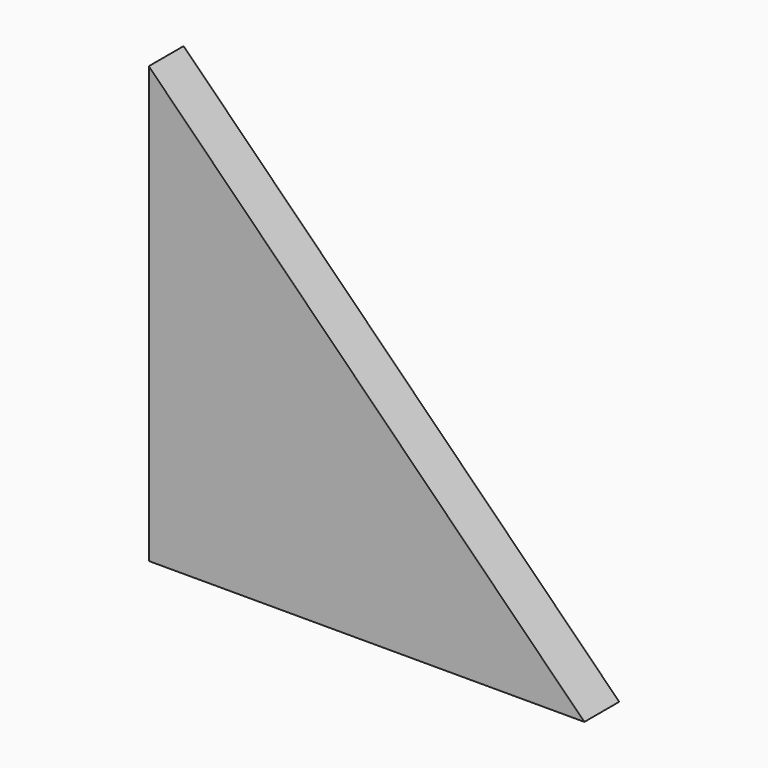
from build123d import *

# Parameters (mm, degrees)
F1_DEPTH = 25.4
F2_R     = 10.018842
F3_DEPTH = 6.35


with BuildPart() as f1:
    # F0 (on Front) → F1 (new body)
    with BuildSketch(Plane.XZ):
        Polygon((212.763246, -168.505661), (-41.236754, 85.494339), (-41.236754, -168.505661), align=None)
    extrude(amount=F1_DEPTH)

    # F2 (on face) → F3 (cut)
    with BuildSketch(Plane(origin=(0, 0, 0), x_dir=(-1, 0, 0), z_dir=(0, 1, 0))):
        with Locations((22.186754, 34.694339)):
            Circle(F2_R)
        with Locations((-111.163246, -117.705661)):
            Circle(F2_R)
    extrude(amount=-F3_DEPTH, mode=Mode.SUBTRACT)


solid = f1.part
